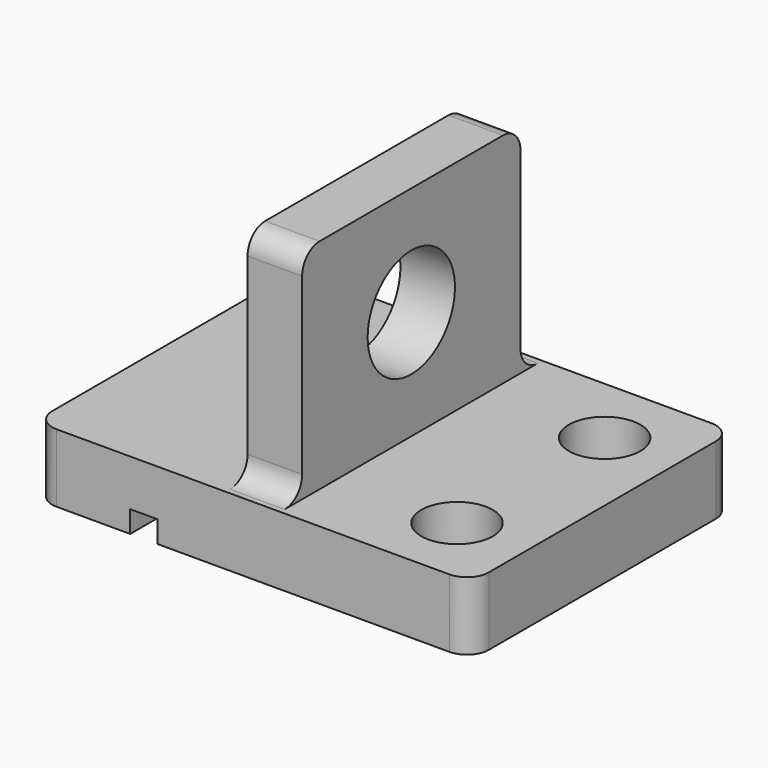
from build123d import *

# Parameters (mm, degrees)
F0_W      = 101.6
F0_H      = 76.2
F0_W_2    = 12.7
F0_H_2    = 63.5
F1_DEPTH  = 15.875
F2_R      = 5.08
F3_R      = 8.3185
F4_DEPTH  = 25.4
F5_DEPTH  = 66.675
F6_R      = 5.08
F7_R      = 12.7
F8_DEPTH  = 25.4
F9_W      = 6.35
F9_H      = 5.08
F10_DEPTH = 101.6


with BuildPart() as f1:
    # F0 (on Top) → F1 (new body)
    with BuildSketch(Plane.XY):
        Rectangle(F0_W, F0_H)
        Rectangle(F0_W_2, F0_H_2, mode=Mode.SUBTRACT)
    extrude(amount=F1_DEPTH)

    # F2
    f2_edges = [f1.edges().sort_by_distance(p)[0] for p in [
        (-50.8, 38.1, 7.9375),
        (-50.8, -38.1, 7.9375),
        (50.8, -38.1, 7.9375),
        (50.8, 38.1, 7.9375),
    ]]
    fillet(f2_edges, radius=F2_R)

    # F3 (on face) → F4 (cut)
    with BuildSketch(Plane.XY.offset(15.875)):
        with Locations((34.163, -21.463)):
            Circle(F3_R)
        with Locations((34.163, 21.463)):
            Circle(F3_R)
    extrude(amount=-F4_DEPTH, mode=Mode.SUBTRACT)

    # F0 (on Top) → F5 (join)
    with BuildSketch(Plane.XY):
        Rectangle(F0_W_2, F0_H_2)
    extrude(amount=F5_DEPTH)

    # F6
    f6_edges = [f1.edges().sort_by_distance(p)[0] for p in [
        (0, -31.75, 66.675),
        (0, 31.75, 66.675),
        (0, 31.75, 15.875),
        (0, -31.75, 15.875),
    ]]
    fillet(f6_edges, radius=F6_R)

    # F7 (on face) → F8 (cut)
    with BuildSketch(Plane(origin=(-6.35, 0, 0), x_dir=(0, -1, 0), z_dir=(-1, 0, 0))):
        with Locations((0, 41.275)):
            Circle(F7_R)
    extrude(amount=-F8_DEPTH, mode=Mode.SUBTRACT)

    # F9 (on face) → F10 (cut)
    with BuildSketch(Plane.XZ.offset(38.1)):
        with Locations((-25.4, 2.54)):
            Rectangle(F9_W, F9_H)
    extrude(amount=-F10_DEPTH, mode=Mode.SUBTRACT)


solid = f1.part
